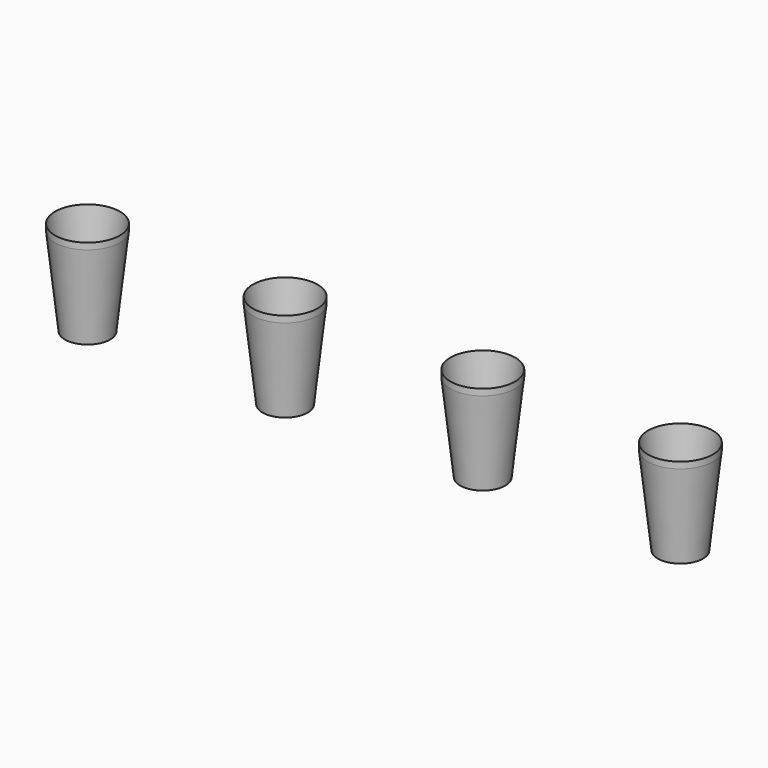
from build123d import *


with BuildPart() as f1:
    # F0 (on Front) → F1 (revolve)
    with BuildSketch(Plane.XZ):
        Polygon((-28.58427, 0), (-2, 0), (-2, 1.463653), (-27.849796, 1.463653), (-40.988765, 120), (-40.988765, 111.910107), align=None)
    revolve(axis=Axis((0, 0, 0.731827), (0, 0, -1)))


with BuildPart() as f4:
    # F2 (on Front) → F4 (revolve)
    with BuildSketch(Plane.XZ):
        Polygon((221.41573, 0), (248, 0), (248, 1.463653), (222.150204, 1.463653), (209.011235, 120), (209.011235, 111.910107), align=None)
    revolve(axis=Axis((250, 0, 0.731827), (0, 0, -1)))


with BuildPart() as f5:
    # F3 (on Front) → F5 (revolve)
    with BuildSketch(Plane.XZ):
        Polygon((471.41573, 0), (498, 0), (498, 1.463653), (472.150204, 1.463653), (459.011235, 120), (459.011235, 111.910107), align=None)
    revolve(axis=Axis((500, 0, 0.731827), (0, 0, -1)))


with BuildPart() as f7:
    # F6 (on Front) → F7 (revolve)
    with BuildSketch(Plane.XZ):
        Polygon((721.41573, 0), (748, 0), (748, 1.463653), (722.150204, 1.463653), (709.011235, 120), (709.011235, 111.910107), align=None)
    revolve(axis=Axis((750, 0, 0.731827), (0, 0, -1)))


solid = Compound([f1.part, f4.part, f5.part, f7.part])
